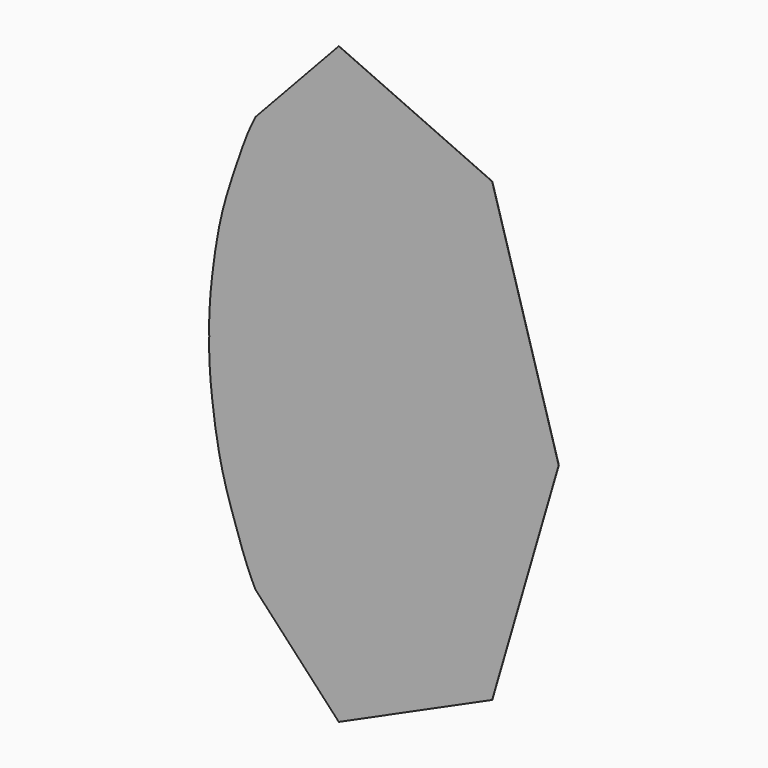
from build123d import *

# Parameters (mm, degrees)
F1_DEPTH = 4


with BuildPart() as f1:
    # F0 (on Front) → F1 (new body)
    with BuildSketch(Plane.XZ):
        Polygon((-2615.6539, -4237.9519), (-919.6197, -6057.7349), (2204.4279, -4647.1967), (3559.2639, 0.0127), (2204.4279, 4647.2221), (-919.6197, 6057.7349), (-2615.6539, 4237.9773), (-2701.4297, 4059.2121), (-2780.6777, 3877.5005), (-2886.8243, 3597.0591), (-2984.2079, 3313.1887), (-3100.5653, 2968.8409), (-3209.4297, 2622.2325), (-3289.0841, 2326.3479), (-3356.4703, 2027.3645), (-3436.8867, 1568.5389), (-3497.6181, 1106.4367), (-3531.9843, 775.3223), (-3554.0823, 443.3697), (-3559.2639, 221.7293), (-3557.1811, 0.0127), (-3559.2639, -221.7039), (-3554.0823, -443.3697), (-3531.9843, -775.2969), (-3497.6181, -1106.4113), (-3436.8867, -1568.5389), (-3356.4703, -2027.3645), (-3289.0841, -2326.3225), (-3209.4297, -2622.2071), (-3100.5653, -2968.8155), (-2984.2079, -3313.1887), (-2886.8243, -3597.0591), (-2780.6777, -3877.5005), (-2701.4297, -4059.1867), align=None)
    extrude(amount=F1_DEPTH)


solid = f1.part
